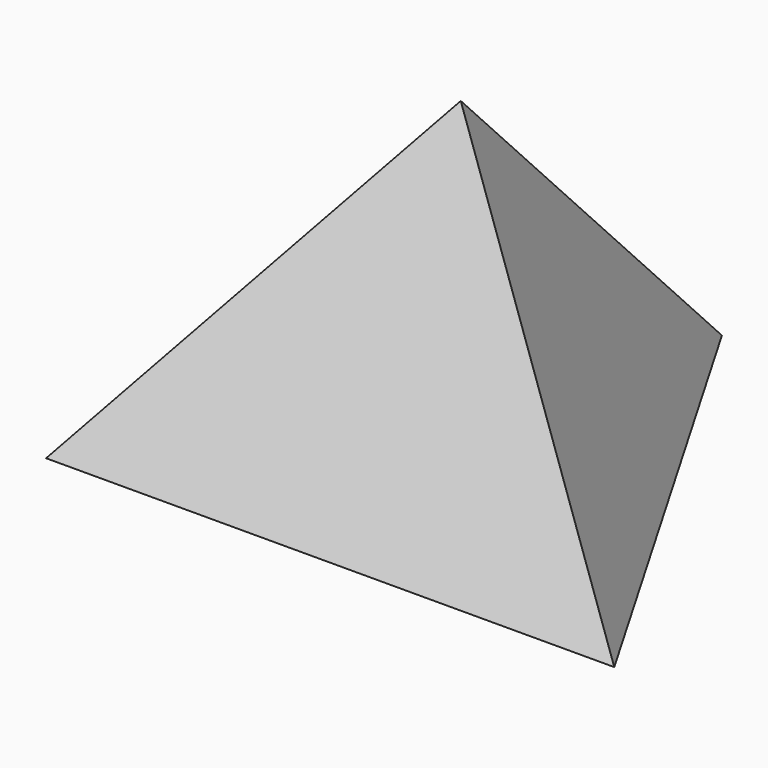
from build123d import *


with BuildPart() as f3:
    # F0 (on Top) → F3 section 0
    with BuildSketch(Plane.XY, mode=Mode.PRIVATE) as f3_s0:
        Polygon((-83.32451, -48.368798), (83.550863, -47.976743), (-0.226353, 96.345542), align=None)
    loft([f3_s0.sketch, Vertex(0, 0, 100)])


solid = f3.part
